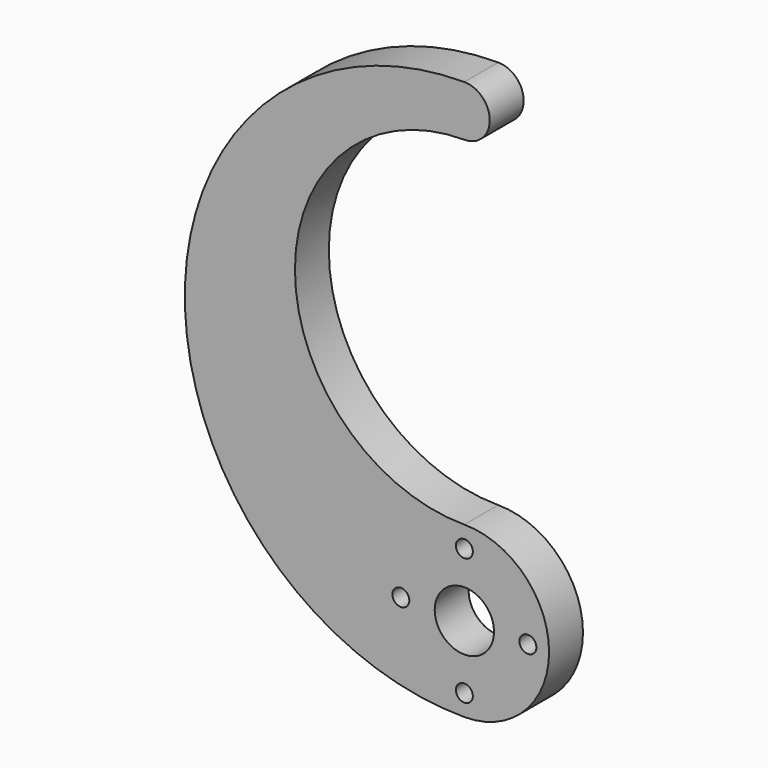
from build123d import *

# Parameters (mm, degrees)
F1_DEPTH = 5
F2_D     = 7
F3_D     = 2


with BuildPart() as f1:
    # F0 (on Front) → F1 (new body)
    with BuildSketch(Plane.XZ):
        with BuildLine():
            ThreePointArc((0, 56), (-33, 23), (0, -10))
            ThreePointArc((0, -10), (10, 0), (0, 10))
            ThreePointArc((0, 10), (-20, 30), (0, 50))
            ThreePointArc((0, 50), (3, 53), (0, 56))
        make_face()
    extrude(amount=F1_DEPTH)

    # F2 (through all)
    with Locations(Plane(origin=(0, 0, 0), x_dir=(1, 0, 0), z_dir=(0, 1, 0))):
        with Locations((0, 0)):
            Hole(F2_D / 2)

    # F3 (through all)
    with Locations(Plane(origin=(0, 0, 0), x_dir=(1, 0, 0), z_dir=(0, 1, 0))):
        with Locations((0, 7.5), (7.5, 0), (0, -7.5), (-7.5, 0)):
            Hole(F3_D / 2)


solid = f1.part
